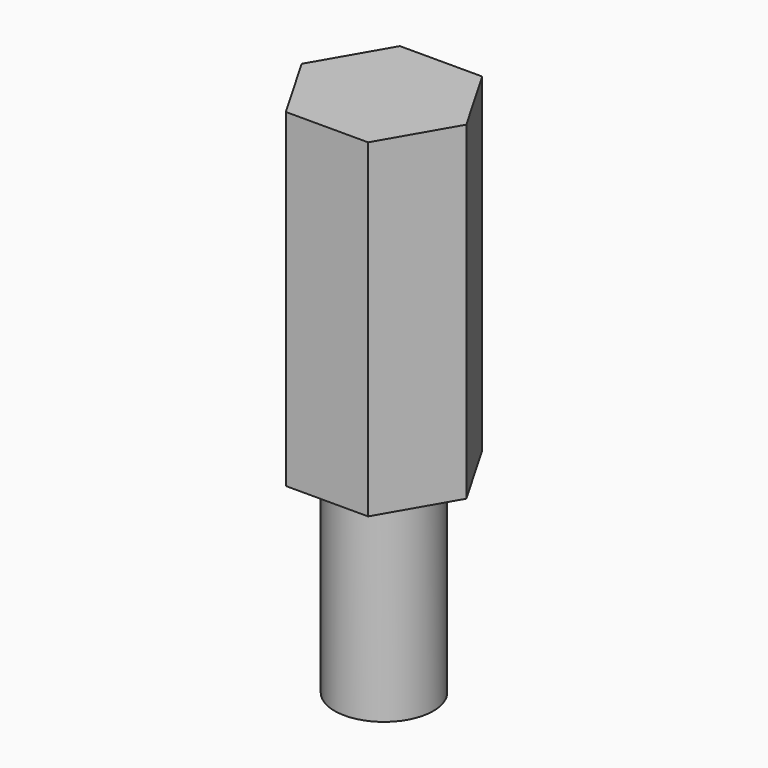
from build123d import *

# Parameters (mm, degrees)
PAD_DEPTH    = 10
SKETCH001_R  = 1.5
PAD001_DEPTH = 6


with BuildPart() as part:
    # Sketch → Pad (new body)
    with BuildSketch(Plane.XY):
        Polygon((2.5, 0), (1.25, 2.165064), (-1.25, 2.165064), (-2.5, 0), (-1.25, -2.165064), (1.25, -2.165064), align=None)
    extrude(amount=-PAD_DEPTH)

    # Sketch001 (on Face8 of Pad) → Pad001 (join)
    with BuildSketch(Plane(origin=(0, 0, -10), x_dir=(1, 0, 0), z_dir=(0, 0, -1))):
        Circle(SKETCH001_R)
    extrude(amount=PAD001_DEPTH)


solid = part.part
